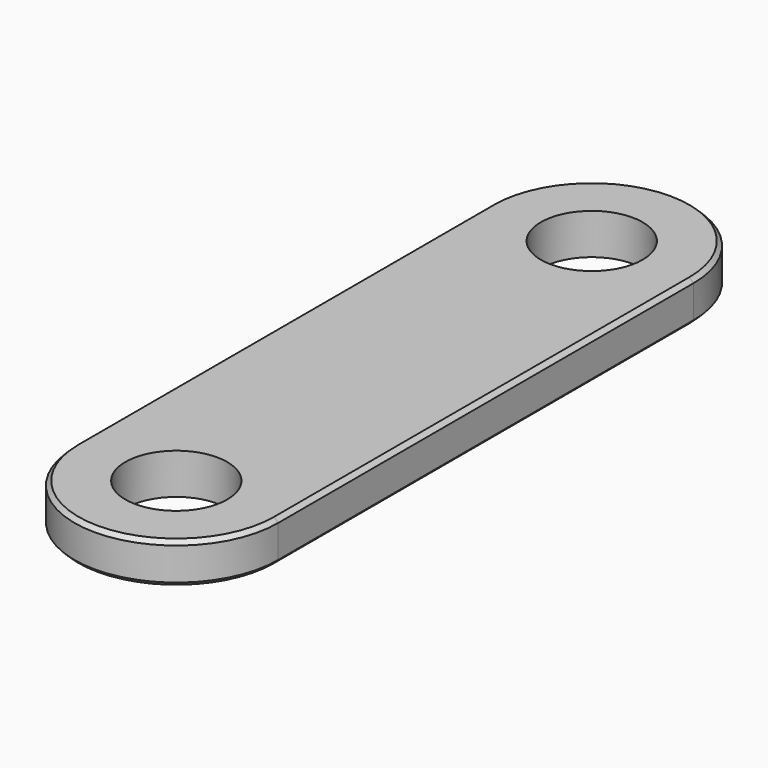
from build123d import *

# Parameters (mm, degrees)
F0_R     = 25
F1_DEPTH = 20
F2_SIZE2 = 2
F2_SIZE  = 2


with BuildPart() as f1:
    # F0 (on Top) → F1 (new body)
    with BuildSketch(Plane.XY):
        with BuildLine():
            Line((50, -127.5), (50, 127.5))
            ThreePointArc((50, 127.5), (0, 177.5), (-50, 127.5))
            Line((-50, 127.5), (-50, -127.5))
            ThreePointArc((-50, -127.5), (0, -177.5), (50, -127.5))
        make_face()
        with Locations((0, -127.5)):
            Circle(F0_R, mode=Mode.SUBTRACT)
        with Locations((0, 127.5)):
            Circle(F0_R, mode=Mode.SUBTRACT)
    extrude(amount=F1_DEPTH)

    # F2
    f2_edges = [f1.edges().sort_by_distance(p)[0] for p in [
        (50, 0, 20),
        (0, -177.5, 20),
        (-50, 0, 20),
        (0, 177.5, 20),
        (50, 0, 0),
        (0, -177.5, 0),
        (0, 177.5, 0),
        (-50, 0, 0),
    ]]
    chamfer(f2_edges, length=F2_SIZE, length2=F2_SIZE2)


solid = f1.part
